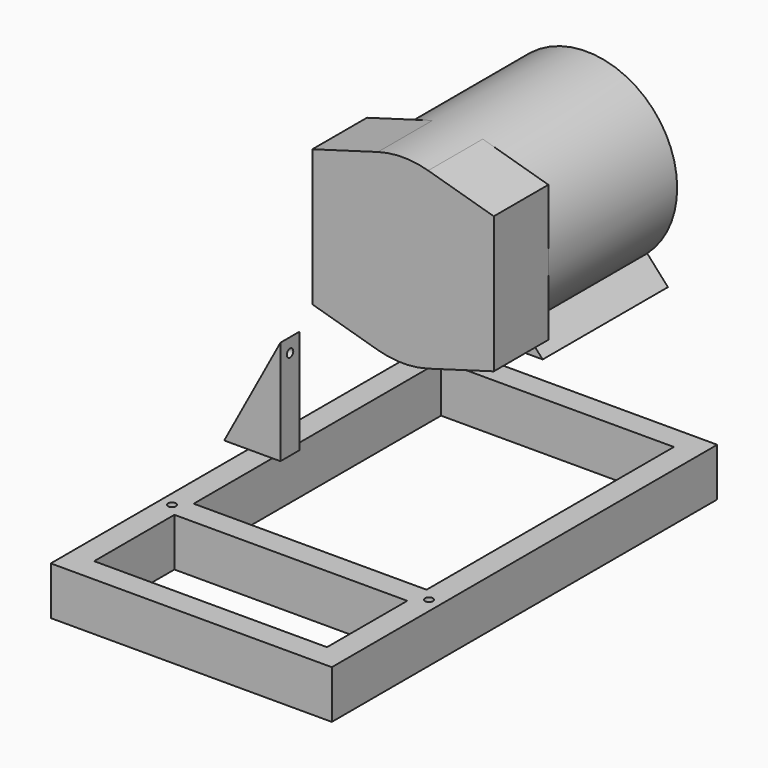
from build123d import *

# Parameters (mm, degrees)
F0_W      = 700
F0_H      = 1200
F1_DEPTH  = 120
F0_W_2    = 580
F0_H_2    = 60
F2_DEPTH  = 120
F4_DEPTH  = 60
F5_R      = 10
F6_DEPTH  = 200
F7_R      = 10
F8_DEPTH  = 100
F9_R      = 10
F10_DEPTH = 50
F11_R     = 226
F12_DEPTH = 571
F14_DEPTH = 170
F16_DEPTH = 390


with BuildPart() as f1:
    # F0 (on Top) → F1 (new body)
    with BuildSketch(Plane.XY):
        with Locations((50, 0)):
            Rectangle(F0_W, F0_H)
        Polygon((-240, -230), (-240, 540), (340, 540), (340, -230), (340, -290), (340, -540), (-240, -540), (-240, -290), align=None, mode=Mode.SUBTRACT)
    extrude(amount=F1_DEPTH)

    # F0 (on Top) → F2 (join)
    with BuildSketch(Plane.XY):
        with Locations((50, -260)):
            Rectangle(F0_W_2, F0_H_2)
    extrude(amount=F2_DEPTH)

    # F5 (on face) → F6 (cut)
    with BuildSketch(Plane.XY.offset(120)):
        with Locations((-270, -260)):
            Circle(F5_R)
        with Locations((370, -260)):
            Circle(F5_R)
    extrude(amount=-F6_DEPTH, mode=Mode.SUBTRACT)


with BuildPart() as f4:
    # F3 (on Front) → F4 (new body)
    with BuildSketch(Plane.XZ):
        Polygon((-300, 170), (-160, 170), (-160, 430), align=None)
    extrude(amount=F4_DEPTH)

    # F7 (on face) → F8 (cut)
    with BuildSketch(Plane(origin=(0, 0, 170), x_dir=(1, 0, 0), z_dir=(0, 0, -1))):
        with Locations((-270, 30)):
            Circle(F7_R)
    extrude(amount=-F8_DEPTH, mode=Mode.SUBTRACT)

    # F9 (on face) → F10 (cut)
    with BuildSketch(Plane.YZ.offset(-160)):
        with Locations((-30, 395)):
            Circle(F9_R)
    extrude(amount=-F10_DEPTH, mode=Mode.SUBTRACT)


with BuildPart() as f12:
    # F11 (on Front) → F12 (new body)
    with BuildSketch(Plane.XZ):
        with Locations((97.4165648222, 669.9192523956)):
            Circle(F11_R)
    extrude(amount=-F12_DEPTH)

    # F13 (on face) → F14 (join)
    with BuildSketch(Plane.XZ):
        with BuildLine():
            Line((323.4165648222, 499.9192523956), (323.4165648222, 669.9192523956))
            ThreePointArc((323.4165648222, 669.9192523956), (278.0245878372, 534.0636598622), (160.0825646221, 452.7811109532))
            Line((160.0825646221, 452.7811109532), (323.4165648222, 499.9192523956))
        make_face()
        with BuildLine():
            ThreePointArc((160.0825646221, 887.0573938381), (278.0245878372, 805.7748449291), (323.4165648222, 669.9192523956))
            Line((323.4165648222, 669.9192523956), (323.4165648222, 839.9192523956))
            Line((323.4165648222, 839.9192523956), (160.0825646221, 887.0573938381))
        make_face()
        with BuildLine():
            ThreePointArc((-128.5834351778, 669.9192523956), (-83.1914581928, 805.7748449291), (34.7505650223, 887.0573938381))
            Line((34.7505650223, 887.0573938381), (-128.5834351778, 839.9192523956))
            Line((-128.5834351778, 839.9192523956), (-128.5834351778, 669.9192523956))
        make_face()
        with BuildLine():
            Line((-128.5834351778, 499.9192523956), (34.7505650223, 452.7811109532))
            ThreePointArc((34.7505650223, 452.7811109532), (-83.1914581928, 534.0636598622), (-128.5834351778, 669.9192523956))
            Line((-128.5834351778, 669.9192523956), (-128.5834351778, 499.9192523956))
        make_face()
    extrude(amount=-F14_DEPTH)

    # F15 (on face) → F16 (join)
    with BuildSketch(Plane(origin=(0, 571, 0), x_dir=(-1, 0, 0), z_dir=(0, 1, 0))):
        with BuildLine():
            ThreePointArc((-118.6533254038, 444.9192523956), (-188.3459693974, 463.0186883955), (-248.8084951306, 502.1203148617))
            Line((-248.8084951306, 502.1203148617), (-300.4165648222, 444.9192523956))
            Line((-300.4165648222, 444.9192523956), (-118.6533254038, 444.9192523956))
        make_face()
        with BuildLine():
            Line((105.5834351778, 444.9192523956), (53.9753654862, 502.1203148617))
            ThreePointArc((53.9753654862, 502.1203148617), (-6.487160247, 463.0186883955), (-76.1798042406, 444.9192523956))
            Line((-76.1798042406, 444.9192523956), (105.5834351778, 444.9192523956))
        make_face()
    extrude(amount=-F16_DEPTH)


solid = Compound([f1.part, f4.part, f12.part])
